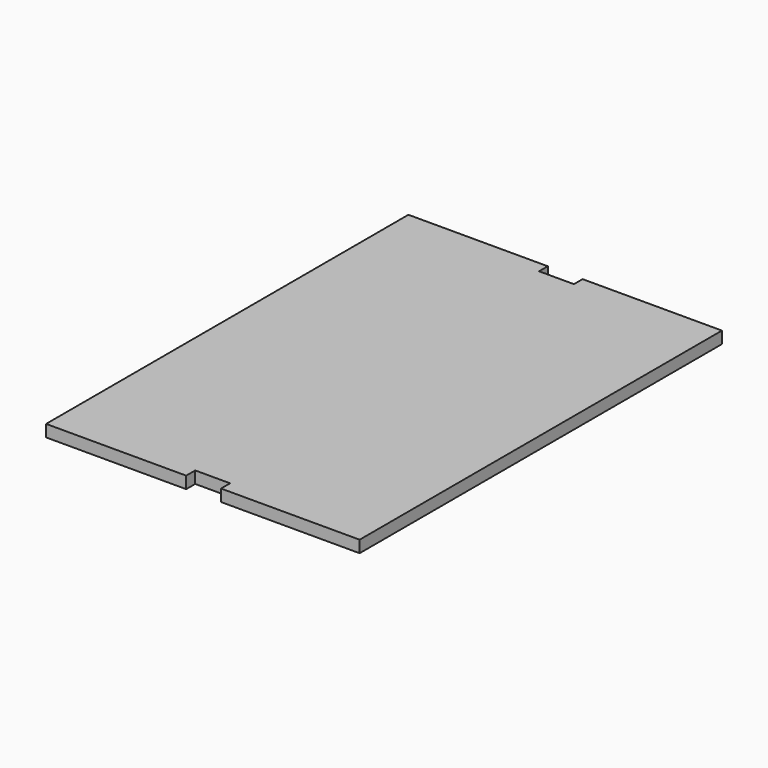
from build123d import *

# Parameters (mm, degrees)
F0_W     = 114.3
F0_H     = 165.1
F1_DEPTH = 4.3434
F3_W     = 12.7
F3_H     = 4.3434
F4_DEPTH = 4.3444
F5_W     = 12.7
F5_H     = 4.3434
F6_DEPTH = 4.3444


with BuildPart() as f1:
    # F0 (on Top) → F1 (new body)
    with BuildSketch(Plane.XY):
        with Locations((0.885719, 52.846001)):
            Rectangle(F0_W, F0_H)
    extrude(amount=F1_DEPTH)

    # F3 (on Top) → F4 (cut, through all)
    with BuildSketch(Plane.XY):
        with Locations((1.166433, -27.752964)):
            Rectangle(F3_W, F3_H)
    extrude(amount=F4_DEPTH, mode=Mode.SUBTRACT)

    # F5 (on Top) → F6 (cut, through all)
    with BuildSketch(Plane.XY):
        with Locations((0.897519, 133.60057)):
            Rectangle(F5_W, F5_H)
    extrude(amount=F6_DEPTH, mode=Mode.SUBTRACT)


solid = f1.part
